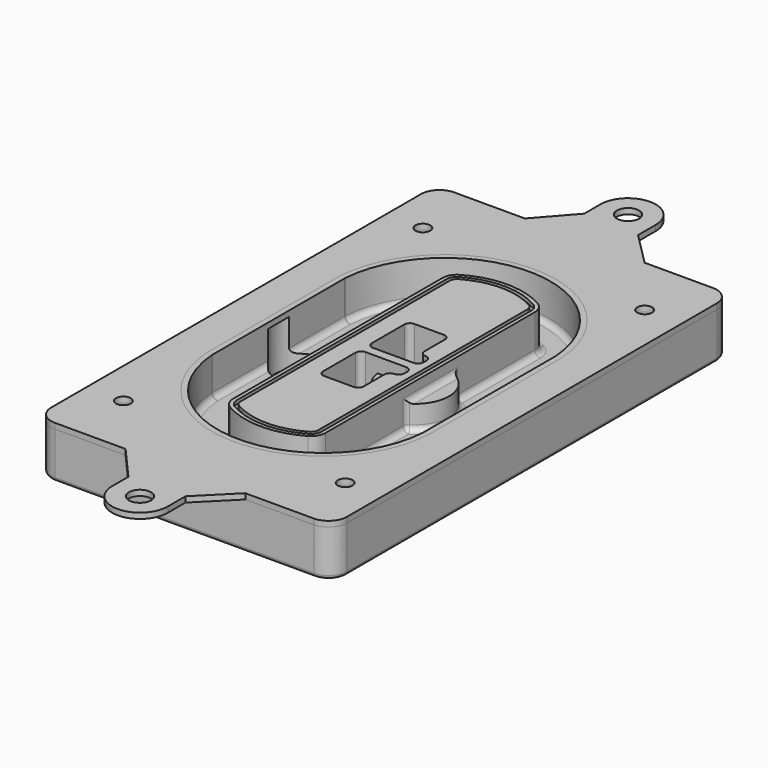
from build123d import *

# Parameters (mm, degrees)
F0_R      = 4
F1_DEPTH  = 25
F2_DEPTH  = 3
F3_DEPTH  = 18
F5_DEPTH  = 21
F6_DEPTH  = 2
F8_DEPTH  = 20
F9_DEPTH  = 16
F10_DEPTH = 25
F7_R      = 6
F7_R_2    = 4
F11_DEPTH = 6
F13_DEPTH = 9
F14_R     = 3
F15_R     = 2
F16_R     = 6
F16_R_2   = 4
F17_DEPTH = 3


with BuildPart() as f1:
    # F0 (on Top) → F1 (new body)
    with BuildSketch(Plane.XY):
        with BuildLine():
            ThreePointArc((-80, -125), (-77.0710678119, -132.0710678119), (-70, -135))
            Line((-70, -135), (70, -135))
            ThreePointArc((70, -135), (77.0710678119, -132.0710678119), (80, -125))
            Line((80, -125), (80, 125))
            ThreePointArc((80, 125), (77.0710678119, 132.0710678119), (70, 135))
            Line((70, 135), (-70, 135))
            ThreePointArc((-70, 135), (-77.0710678119, 132.0710678119), (-80, 125))
            Line((-80, 125), (-80, -125))
        make_face()
        with Locations((-60, -101.25)):
            Circle(F0_R, mode=Mode.SUBTRACT)
        with Locations((60, -101.25)):
            Circle(F0_R, mode=Mode.SUBTRACT)
        with Locations((-60, 101.25)):
            Circle(F0_R, mode=Mode.SUBTRACT)
        with BuildLine():
            ThreePointArc((-64, 44.6627429245), (-63.991269098, 45.1571001106), (-63.9650872818, 45.650840699))
            ThreePointArc((-63.9650872818, 45.650840699), (0, 105.25), (63.9650872818, 45.650840699))
            ThreePointArc((63.9650872818, 45.650840699), (63.991269098, 45.1571001106), (64, 44.6627429245))
            Line((64, 44.6627429245), (64, -44.6627429245))
            ThreePointArc((64, -44.6627429245), (63.991269098, -45.1571001106), (63.9650872818, -45.650840699))
            ThreePointArc((63.9650872818, -45.650840699), (0, -105.25), (-63.9650872818, -45.650840699))
            ThreePointArc((-63.9650872818, -45.650840699), (-63.991269098, -45.1571001106), (-64, -44.6627429245))
            Line((-64, -44.6627429245), (-64, 44.6627429245))
        make_face(mode=Mode.SUBTRACT)
        with Locations((60, 101.25)):
            Circle(F0_R, mode=Mode.SUBTRACT)
        with BuildLine():
            ThreePointArc((63.9650872818, 45.650840699), (0, 105.25), (-63.9650872818, 45.650840699))
            ThreePointArc((-63.9650872818, 45.650840699), (-63.991269098, 45.1571001106), (-64, 44.6627429245))
            Line((-64, 44.6627429245), (-64, -44.6627429245))
            ThreePointArc((-64, -44.6627429245), (-63.991269098, -45.1571001106), (-63.9650872818, -45.650840699))
            ThreePointArc((-63.9650872818, -45.650840699), (0, -105.25), (63.9650872818, -45.650840699))
            ThreePointArc((63.9650872818, -45.650840699), (63.991269098, -45.1571001106), (64, -44.6627429245))
            Line((64, -44.6627429245), (64, 44.6627429245))
            ThreePointArc((64, 44.6627429245), (63.991269098, 45.1571001106), (63.9650872818, 45.650840699))
        make_face()
        with BuildLine():
            Line((-60, -44.6627429245), (-60, 44.6627429245))
            ThreePointArc((-60, 44.6627429245), (-59.9937636414, 45.0158552003), (-59.9750623441, 45.3685270491))
            ThreePointArc((-59.9750623441, 45.3685270491), (0, 101.25), (59.9750623441, 45.3685270491))
            ThreePointArc((59.9750623441, 45.3685270491), (59.9937636414, 45.0158552003), (60, 44.6627429245))
            Line((60, 44.6627429245), (60, -44.6627429245))
            ThreePointArc((60, -44.6627429245), (59.9937636414, -45.0158552003), (59.9750623441, -45.3685270491))
            ThreePointArc((59.9750623441, -45.3685270491), (0, -101.25), (-59.9750623441, -45.3685270491))
            ThreePointArc((-59.9750623441, -45.3685270491), (-59.9937636414, -45.0158552003), (-60, -44.6627429245))
        make_face(mode=Mode.SUBTRACT)
        with BuildLine():
            ThreePointArc((-59.9750623441, 45.3685270491), (-59.9937636414, 45.0158552003), (-60, 44.6627429245))
            Line((-60, 44.6627429245), (-60, -44.6627429245))
            ThreePointArc((-60, -44.6627429245), (-59.9937636414, -45.0158552003), (-59.9750623441, -45.3685270491))
            ThreePointArc((-59.9750623441, -45.3685270491), (0, -101.25), (59.9750623441, -45.3685270491))
            ThreePointArc((59.9750623441, -45.3685270491), (59.9937636414, -45.0158552003), (60, -44.6627429245))
            Line((60, -44.6627429245), (60, 44.6627429245))
            ThreePointArc((60, 44.6627429245), (59.9937636414, 45.0158552003), (59.9750623441, 45.3685270491))
            ThreePointArc((59.9750623441, 45.3685270491), (0, 101.25), (-59.9750623441, 45.3685270491))
        make_face()
        with BuildLine():
            ThreePointArc((56.9825436409, 45.1567918117), (56.995634549, 44.9099215176), (57, 44.6627429245))
            Line((57, 44.6627429245), (57, -44.6627429245))
            ThreePointArc((57, -44.6627429245), (56.995634549, -44.9099215176), (56.9825436409, -45.1567918117))
            ThreePointArc((56.9825436409, -45.1567918117), (0, -98.25), (-56.9825436409, -45.1567918117))
            ThreePointArc((-56.9825436409, -45.1567918117), (-56.995634549, -44.9099215176), (-57, -44.6627429245))
            Line((-57, -44.6627429245), (-57, 44.6627429245))
            ThreePointArc((-57, 44.6627429245), (-56.995634549, 44.9099215176), (-56.9825436409, 45.1567918117))
            ThreePointArc((-56.9825436409, 45.1567918117), (0, 98.25), (56.9825436409, 45.1567918117))
        make_face(mode=Mode.SUBTRACT)
        with BuildLine():
            Line((57, -44.6627429245), (57, 44.6627429245))
            ThreePointArc((57, 44.6627429245), (56.995634549, 44.9099215176), (56.9825436409, 45.1567918117))
            ThreePointArc((56.9825436409, 45.1567918117), (0, 98.25), (-56.9825436409, 45.1567918117))
            ThreePointArc((-56.9825436409, 45.1567918117), (-56.995634549, 44.9099215176), (-57, 44.6627429245))
            Line((-57, 44.6627429245), (-57, -44.6627429245))
            ThreePointArc((-57, -44.6627429245), (-56.995634549, -44.9099215176), (-56.9825436409, -45.1567918117))
            ThreePointArc((-56.9825436409, -45.1567918117), (0, -98.25), (56.9825436409, -45.1567918117))
            ThreePointArc((56.9825436409, -45.1567918117), (56.995634549, -44.9099215176), (57, -44.6627429245))
        make_face()
    extrude(amount=-F1_DEPTH)

    # F0 (on Top) → F2 (join)
    with BuildSketch(Plane.XY):
        with BuildLine():
            ThreePointArc((-59.9750623441, 45.3685270491), (-59.9937636414, 45.0158552003), (-60, 44.6627429245))
            Line((-60, 44.6627429245), (-60, -44.6627429245))
            ThreePointArc((-60, -44.6627429245), (-59.9937636414, -45.0158552003), (-59.9750623441, -45.3685270491))
            ThreePointArc((-59.9750623441, -45.3685270491), (0, -101.25), (59.9750623441, -45.3685270491))
            ThreePointArc((59.9750623441, -45.3685270491), (59.9937636414, -45.0158552003), (60, -44.6627429245))
            Line((60, -44.6627429245), (60, 44.6627429245))
            ThreePointArc((60, 44.6627429245), (59.9937636414, 45.0158552003), (59.9750623441, 45.3685270491))
            ThreePointArc((59.9750623441, 45.3685270491), (0, 101.25), (-59.9750623441, 45.3685270491))
        make_face()
        with BuildLine():
            ThreePointArc((56.9825436409, 45.1567918117), (56.995634549, 44.9099215176), (57, 44.6627429245))
            Line((57, 44.6627429245), (57, -44.6627429245))
            ThreePointArc((57, -44.6627429245), (56.995634549, -44.9099215176), (56.9825436409, -45.1567918117))
            ThreePointArc((56.9825436409, -45.1567918117), (0, -98.25), (-56.9825436409, -45.1567918117))
            ThreePointArc((-56.9825436409, -45.1567918117), (-56.995634549, -44.9099215176), (-57, -44.6627429245))
            Line((-57, -44.6627429245), (-57, 44.6627429245))
            ThreePointArc((-57, 44.6627429245), (-56.995634549, 44.9099215176), (-56.9825436409, 45.1567918117))
            ThreePointArc((-56.9825436409, 45.1567918117), (0, 98.25), (56.9825436409, 45.1567918117))
        make_face(mode=Mode.SUBTRACT)
    extrude(amount=F2_DEPTH)

    # F0 (on Top) → F3 (cut)
    with BuildSketch(Plane.XY):
        with BuildLine():
            Line((57, -44.6627429245), (57, 44.6627429245))
            ThreePointArc((57, 44.6627429245), (56.995634549, 44.9099215176), (56.9825436409, 45.1567918117))
            ThreePointArc((56.9825436409, 45.1567918117), (0, 98.25), (-56.9825436409, 45.1567918117))
            ThreePointArc((-56.9825436409, 45.1567918117), (-56.995634549, 44.9099215176), (-57, 44.6627429245))
            Line((-57, 44.6627429245), (-57, -44.6627429245))
            ThreePointArc((-57, -44.6627429245), (-56.995634549, -44.9099215176), (-56.9825436409, -45.1567918117))
            ThreePointArc((-56.9825436409, -45.1567918117), (0, -98.25), (56.9825436409, -45.1567918117))
            ThreePointArc((56.9825436409, -45.1567918117), (56.995634549, -44.9099215176), (57, -44.6627429245))
        make_face()
    extrude(amount=-F3_DEPTH, mode=Mode.SUBTRACT)

    # F4 (on face) → F5 (join, through all)
    with BuildSketch(Plane.XY.offset(3)):
        with BuildLine():
            ThreePointArc((-25, -70.7141132851), (-23.9239722661, -74.7214325959), (-20.9853479853, -77.6507552274))
            ThreePointArc((-20.9853479853, -77.6507552274), (0, -83.25), (20.9853479853, -77.6507552274))
            ThreePointArc((20.9853479853, -77.6507552274), (23.9239722661, -74.7214325959), (25, -70.7141132851))
            Line((25, -70.7141132851), (25, 70.7141132851))
            ThreePointArc((25, 70.7141132851), (23.9239722661, 74.7214325959), (20.9853479853, 77.6507552274))
            ThreePointArc((20.9853479853, 77.6507552274), (0, 83.25), (-20.9853479853, 77.6507552274))
            ThreePointArc((-20.9853479853, 77.6507552274), (-23.9239722661, 74.7214325959), (-25, 70.7141132851))
            Line((-25, 70.7141132851), (-25, -70.7141132851))
        make_face()
        with BuildLine():
            ThreePointArc((19.989010989, 75.9165947419), (22.1929791996, 73.7196027682), (23, 70.7141132851))
            Line((23, 70.7141132851), (23, -70.7141132851))
            ThreePointArc((23, -70.7141132851), (22.1929791996, -73.7196027682), (19.989010989, -75.9165947419))
            ThreePointArc((19.989010989, -75.9165947419), (0, -81.25), (-19.989010989, -75.9165947419))
            ThreePointArc((-19.989010989, -75.9165947419), (-22.1929791996, -73.7196027682), (-23, -70.7141132851))
            Line((-23, -70.7141132851), (-23, 70.7141132851))
            ThreePointArc((-23, 70.7141132851), (-22.1929791996, 73.7196027682), (-19.989010989, 75.9165947419))
            ThreePointArc((-19.989010989, 75.9165947419), (0, 81.25), (19.989010989, 75.9165947419))
        make_face(mode=Mode.SUBTRACT)
        with BuildLine():
            Line((23, -70.7141132851), (23, 70.7141132851))
            ThreePointArc((23, 70.7141132851), (22.1929791996, 73.7196027682), (19.989010989, 75.9165947419))
            ThreePointArc((19.989010989, 75.9165947419), (0, 81.25), (-19.989010989, 75.9165947419))
            ThreePointArc((-19.989010989, 75.9165947419), (-22.1929791996, 73.7196027682), (-23, 70.7141132851))
            Line((-23, 70.7141132851), (-23, -70.7141132851))
            ThreePointArc((-23, -70.7141132851), (-22.1929791996, -73.7196027682), (-19.989010989, -75.9165947419))
            ThreePointArc((-19.989010989, -75.9165947419), (0, -81.25), (19.989010989, -75.9165947419))
            ThreePointArc((19.989010989, -75.9165947419), (22.1929791996, -73.7196027682), (23, -70.7141132851))
        make_face()
        with BuildLine():
            ThreePointArc((18.9926739927, 74.1824342563), (20.461986133, 72.7177729405), (21, 70.7141132851))
            Line((21, 70.7141132851), (21, -70.7141132851))
            ThreePointArc((21, -70.7141132851), (20.461986133, -72.7177729405), (18.9926739927, -74.1824342563))
            ThreePointArc((18.9926739927, -74.1824342563), (0, -79.25), (-18.9926739927, -74.1824342563))
            ThreePointArc((-18.9926739927, -74.1824342563), (-20.461986133, -72.7177729405), (-21, -70.7141132851))
            Line((-21, -70.7141132851), (-21, 70.7141132851))
            ThreePointArc((-21, 70.7141132851), (-20.461986133, 72.7177729405), (-18.9926739927, 74.1824342563))
            ThreePointArc((-18.9926739927, 74.1824342563), (0, 79.25), (18.9926739927, 74.1824342563))
        make_face(mode=Mode.SUBTRACT)
        with BuildLine():
            Line((21, -70.7141132851), (21, 70.7141132851))
            ThreePointArc((21, 70.7141132851), (20.461986133, 72.7177729405), (18.9926739927, 74.1824342563))
            ThreePointArc((18.9926739927, 74.1824342563), (0, 79.25), (-18.9926739927, 74.1824342563))
            ThreePointArc((-18.9926739927, 74.1824342563), (-20.461986133, 72.7177729405), (-21, 70.7141132851))
            Line((-21, 70.7141132851), (-21, -70.7141132851))
            ThreePointArc((-21, -70.7141132851), (-20.461986133, -72.7177729405), (-18.9926739927, -74.1824342563))
            ThreePointArc((-18.9926739927, -74.1824342563), (0, -79.25), (18.9926739927, -74.1824342563))
            ThreePointArc((18.9926739927, -74.1824342563), (20.461986133, -72.7177729405), (21, -70.7141132851))
        make_face()
        with BuildLine():
            Line((-8, -2.5), (14, -2.5))
            ThreePointArc((14, -2.5), (16.1213203436, -3.3786796564), (17, -5.5))
            Line((17, -5.5), (17, -7.5))
            ThreePointArc((17, -7.5), (16.1213203436, -9.6213203436), (14, -10.5))
            ThreePointArc((14, -10.5), (11.8786796564, -11.3786796564), (11, -13.5))
            Line((11, -13.5), (11, -27.5))
            ThreePointArc((11, -27.5), (10.1213203436, -29.6213203436), (8, -30.5))
            Line((8, -30.5), (-8, -30.5))
            ThreePointArc((-8, -30.5), (-10.1213203436, -29.6213203436), (-11, -27.5))
            Line((-11, -27.5), (-11, -5.5))
            ThreePointArc((-11, -5.5), (-10.1213203436, -3.3786796564), (-8, -2.5))
        make_face(mode=Mode.SUBTRACT)
        with BuildLine():
            ThreePointArc((-8, 2.5), (-10.1213203436, 3.3786796564), (-11, 5.5))
            Line((-11, 5.5), (-11, 27.5))
            ThreePointArc((-11, 27.5), (-10.1213203436, 29.6213203436), (-8, 30.5))
            Line((-8, 30.5), (8, 30.5))
            ThreePointArc((8, 30.5), (10.1213203436, 29.6213203436), (11, 27.5))
            Line((11, 27.5), (11, 13.5))
            ThreePointArc((11, 13.5), (11.8786796564, 11.3786796564), (14, 10.5))
            ThreePointArc((14, 10.5), (16.1213203436, 9.6213203436), (17, 7.5))
            Line((17, 7.5), (17, 5.5))
            ThreePointArc((17, 5.5), (16.1213203436, 3.3786796564), (14, 2.5))
            Line((14, 2.5), (-8, 2.5))
        make_face(mode=Mode.SUBTRACT)
    extrude(amount=-F5_DEPTH)

    # F4 (on face) → F6 (cut)
    with BuildSketch(Plane.XY.offset(3)):
        with BuildLine():
            Line((23, -70.7141132851), (23, 70.7141132851))
            ThreePointArc((23, 70.7141132851), (22.1929791996, 73.7196027682), (19.989010989, 75.9165947419))
            ThreePointArc((19.989010989, 75.9165947419), (0, 81.25), (-19.989010989, 75.9165947419))
            ThreePointArc((-19.989010989, 75.9165947419), (-22.1929791996, 73.7196027682), (-23, 70.7141132851))
            Line((-23, 70.7141132851), (-23, -70.7141132851))
            ThreePointArc((-23, -70.7141132851), (-22.1929791996, -73.7196027682), (-19.989010989, -75.9165947419))
            ThreePointArc((-19.989010989, -75.9165947419), (0, -81.25), (19.989010989, -75.9165947419))
            ThreePointArc((19.989010989, -75.9165947419), (22.1929791996, -73.7196027682), (23, -70.7141132851))
        make_face()
        with BuildLine():
            ThreePointArc((18.9926739927, 74.1824342563), (20.461986133, 72.7177729405), (21, 70.7141132851))
            Line((21, 70.7141132851), (21, -70.7141132851))
            ThreePointArc((21, -70.7141132851), (20.461986133, -72.7177729405), (18.9926739927, -74.1824342563))
            ThreePointArc((18.9926739927, -74.1824342563), (0, -79.25), (-18.9926739927, -74.1824342563))
            ThreePointArc((-18.9926739927, -74.1824342563), (-20.461986133, -72.7177729405), (-21, -70.7141132851))
            Line((-21, -70.7141132851), (-21, 70.7141132851))
            ThreePointArc((-21, 70.7141132851), (-20.461986133, 72.7177729405), (-18.9926739927, 74.1824342563))
            ThreePointArc((-18.9926739927, 74.1824342563), (0, 79.25), (18.9926739927, 74.1824342563))
        make_face(mode=Mode.SUBTRACT)
    extrude(amount=-F6_DEPTH, mode=Mode.SUBTRACT)

    # F7 (on face) → F8 (join)
    with BuildSketch(Plane(origin=(0, 0, -25), x_dir=(1, 0, 0), z_dir=(0, 0, -1))):
        with BuildLine():
            ThreePointArc((3.28842436, 0), (16.7567035675, 13.4682792075), (30.224982775, 0))
            Line((30.224982775, 0), (35.224982775, 0))
            ThreePointArc((35.224982775, 0), (16.7567035675, 18.4682792075), (-1.71157564, 0))
            Line((-1.71157564, 0), (3.28842436, 0))
        make_face()
        with BuildLine():
            Line((3.28842436, 0), (30.224982775, 0))
            ThreePointArc((30.224982775, 0), (16.7567035675, 13.4682792075), (3.28842436, 0))
        make_face()
        with BuildLine():
            ThreePointArc((3.28842436, 0), (16.7567035675, -13.4682792075), (30.224982775, 0))
            Line((30.224982775, 0), (3.28842436, 0))
        make_face()
        with BuildLine():
            Line((35.224982775, 0), (30.224982775, 0))
            ThreePointArc((30.224982775, 0), (16.7567035675, -13.4682792075), (3.28842436, 0))
            Line((3.28842436, 0), (-1.71157564, 0))
            ThreePointArc((-1.71157564, 0), (16.7567035675, -18.4682792075), (35.224982775, 0))
        make_face()
    extrude(amount=-F8_DEPTH)

    # F7 (on face) → F9 (cut)
    with BuildSketch(Plane(origin=(0, 0, -25), x_dir=(1, 0, 0), z_dir=(0, 0, -1))):
        with BuildLine():
            Line((3.28842436, 0), (30.224982775, 0))
            ThreePointArc((30.224982775, 0), (16.7567035675, 13.4682792075), (3.28842436, 0))
        make_face()
        with BuildLine():
            ThreePointArc((3.28842436, 0), (16.7567035675, -13.4682792075), (30.224982775, 0))
            Line((30.224982775, 0), (3.28842436, 0))
        make_face()
    extrude(amount=-F9_DEPTH, mode=Mode.SUBTRACT)

    # F7 (on face) → F10 (cut)
    with BuildSketch(Plane(origin=(0, 0, -25), x_dir=(1, 0, 0), z_dir=(0, 0, -1))):
        with BuildLine():
            Line((-59.0318229325, 0), (-32.0952645175, 0))
            ThreePointArc((-32.0952645175, 0), (-45.563543725, 13.4682792075), (-59.0318229325, 0))
        make_face()
        with BuildLine():
            ThreePointArc((-59.0318229325, 0), (-45.563543725, -13.4682792075), (-32.0952645175, 0))
            Line((-32.0952645175, 0), (-59.0318229325, 0))
        make_face()
    extrude(amount=-F10_DEPTH, mode=Mode.SUBTRACT)

    # F7 (on face) → F11 (cut)
    with BuildSketch(Plane(origin=(0, 0, -25), x_dir=(1, 0, 0), z_dir=(0, 0, -1))):
        with Locations((60, -101.25)):
            Circle(F7_R)
        with Locations((60, -101.25)):
            Circle(F7_R_2, mode=Mode.SUBTRACT)
        with Locations((60, -101.25)):
            Circle(F7_R)
        with Locations((60, -101.25)):
            Circle(F7_R_2, mode=Mode.SUBTRACT)
        with Locations((-60, -101.25)):
            Circle(F7_R)
        with Locations((-60, -101.25)):
            Circle(F7_R_2, mode=Mode.SUBTRACT)
        with Locations((-60, -101.25)):
            Circle(F7_R)
        with Locations((-60, -101.25)):
            Circle(F7_R_2, mode=Mode.SUBTRACT)
        with Locations((-60, 101.25)):
            Circle(F7_R)
        with Locations((-60, 101.25)):
            Circle(F7_R_2, mode=Mode.SUBTRACT)
        with Locations((-60, 101.25)):
            Circle(F7_R)
        with Locations((-60, 101.25)):
            Circle(F7_R_2, mode=Mode.SUBTRACT)
        with Locations((60, 101.25)):
            Circle(F7_R)
        with Locations((60, 101.25)):
            Circle(F7_R_2, mode=Mode.SUBTRACT)
        with Locations((60, 101.25)):
            Circle(F7_R)
        with Locations((60, 101.25)):
            Circle(F7_R_2, mode=Mode.SUBTRACT)
    extrude(amount=-F11_DEPTH, mode=Mode.SUBTRACT)

    # F12 (on face) → F13 (cut, through all)
    with BuildSketch(Plane(origin=(0, 0, -9), x_dir=(1, 0, 0), z_dir=(0, 0, -1))):
        with BuildLine():
            Line((11, 13.5), (11, 17.5481537753))
            ThreePointArc((11, 17.5481537753), (2.5696536419, 11.8239143813), (-1.5415842455, 2.5))
            Line((-1.5415842455, 2.5), (3.5224848595, 2.5))
            ThreePointArc((3.5224848595, 2.5), (6.1857188154, 8.3455872281), (11.2536447004, 12.2927168648))
            ThreePointArc((11.2536447004, 12.2927168648), (11.0640958889, 12.8831798879), (11, 13.5))
        make_face()
        with BuildLine():
            ThreePointArc((11.2536447004, -12.2927168648), (6.1857188154, -8.3455872281), (3.5224848595, -2.5))
            Line((3.5224848595, -2.5), (-1.5415842455, -2.5))
            ThreePointArc((-1.5415842455, -2.5), (2.5696536419, -11.8239143813), (11, -17.5481537753))
            Line((11, -17.5481537753), (11, -13.5))
            ThreePointArc((11, -13.5), (11.0640958889, -12.8831798879), (11.2536447004, -12.2927168648))
        make_face()
        with BuildLine():
            ThreePointArc((11.2536447004, 12.2927168648), (6.1857188154, 8.3455872281), (3.5224848595, 2.5))
            Line((3.5224848595, 2.5), (14, 2.5))
            ThreePointArc((14, 2.5), (16.1213203436, 3.3786796564), (17, 5.5))
            Line((17, 5.5), (17, 7.5))
            ThreePointArc((17, 7.5), (16.1213203436, 9.6213203436), (14, 10.5))
            ThreePointArc((14, 10.5), (12.3601599782, 10.9878446101), (11.2536447004, 12.2927168648))
        make_face()
        with BuildLine():
            Line((14, -2.5), (3.5224848595, -2.5))
            ThreePointArc((3.5224848595, -2.5), (6.1857188154, -8.3455872281), (11.2536447004, -12.2927168648))
            ThreePointArc((11.2536447004, -12.2927168648), (12.3601599782, -10.9878446101), (14, -10.5))
            ThreePointArc((14, -10.5), (16.1213203436, -9.6213203436), (17, -7.5))
            Line((17, -7.5), (17, -5.5))
            ThreePointArc((17, -5.5), (16.1213203436, -3.3786796564), (14, -2.5))
        make_face()
    extrude(amount=F13_DEPTH, mode=Mode.SUBTRACT)

    # F14
    f14_edges = [f1.edges().sort_by_distance(p)[0] for p in [
        (-57, -25.888126, -18),
        (-57, 25.888126, -18),
        (25, 0, -5),
        (25, 16.526506, -11.5),
        (25, -16.526506, -11.5),
        (25, -43.62031, -18),
        (35.224983, 0, -18),
    ]]
    fillet(f14_edges, radius=F14_R)

    # F15
    f15_edges = [f1.edges().sort_by_distance(p)[0] for p in [
        (0, -135, -25),
    ]]
    fillet(f15_edges, radius=F15_R)


with BuildPart() as f17:
    # F16 (on face) → F17 (new body, through all)
    with BuildSketch(Plane.XY):
        with BuildLine():
            Line((-31.7855119892, 135), (32.999210292, 135))
            Line((32.999210292, 135), (14.999210292, 153))
            Line((14.999210292, 153), (14.999210292, 164.8460824344))
            ThreePointArc((14.999210292, 164.8460824344), (0.5555660631, 179.9897080142), (-14.9694523324, 165.9568160053))
            Line((-14.9694523324, 165.9568160053), (-14.9694523324, 154.1107335709))
            Line((-14.9694523324, 154.1107335709), (-31.7855119892, 135))
        make_face()
        with Locations((0, 165)):
            Circle(F16_R, mode=Mode.SUBTRACT)
        with BuildLine():
            ThreePointArc((-14.9694523324, -165.9568160053), (0.5555660631, -179.9897080142), (14.999210292, -164.8460824344))
            Line((14.999210292, -164.8460824344), (14.999210292, -153))
            Line((14.999210292, -153), (32.999210292, -135))
            Line((32.999210292, -135), (-31.7855119892, -135))
            Line((-31.7855119892, -135), (-14.9694523324, -154.1107335709))
            Line((-14.9694523324, -154.1107335709), (-14.9694523324, -165.9568160053))
        make_face()
        with Locations((0, -165)):
            Circle(F16_R, mode=Mode.SUBTRACT)
        with BuildLine():
            Line((-31.7855119892, -135), (32.999210292, -135))
            Line((32.999210292, -135), (70, -135))
            ThreePointArc((70, -135), (77.0710678119, -132.0710678119), (80, -125))
            Line((80, -125), (80, 125))
            ThreePointArc((80, 125), (77.0710678119, 132.0710678119), (70, 135))
            Line((70, 135), (32.999210292, 135))
            Line((32.999210292, 135), (-31.7855119892, 135))
            Line((-31.7855119892, 135), (-70, 135))
            ThreePointArc((-70, 135), (-77.0710678119, 132.0710678119), (-80, 125))
            Line((-80, 125), (-80, -125))
            ThreePointArc((-80, -125), (-77.0710678119, -132.0710678119), (-70, -135))
            Line((-70, -135), (-31.7855119892, -135))
        make_face()
        with Locations((-60, -101.25)):
            Circle(F16_R_2, mode=Mode.SUBTRACT)
        with Locations((60, -101.25)):
            Circle(F16_R_2, mode=Mode.SUBTRACT)
        with BuildLine():
            ThreePointArc((-60, 44.6627429245), (-59.9937636414, 45.0158552003), (-59.9750623441, 45.3685270491))
            ThreePointArc((-59.9750623441, 45.3685270491), (0, 101.25), (59.9750623441, 45.3685270491))
            ThreePointArc((59.9750623441, 45.3685270491), (59.9937636414, 45.0158552003), (60, 44.6627429245))
            Line((60, 44.6627429245), (60, -44.6627429245))
            ThreePointArc((60, -44.6627429245), (59.9937636414, -45.0158552003), (59.9750623441, -45.3685270491))
            ThreePointArc((59.9750623441, -45.3685270491), (0, -101.25), (-59.9750623441, -45.3685270491))
            ThreePointArc((-59.9750623441, -45.3685270491), (-59.9937636414, -45.0158552003), (-60, -44.6627429245))
            Line((-60, -44.6627429245), (-60, 44.6627429245))
        make_face(mode=Mode.SUBTRACT)
        with Locations((-60, 101.25)):
            Circle(F16_R_2, mode=Mode.SUBTRACT)
        with Locations((60, 101.25)):
            Circle(F16_R_2, mode=Mode.SUBTRACT)
    extrude(amount=F17_DEPTH)


solid = Compound([f1.part, f17.part])
